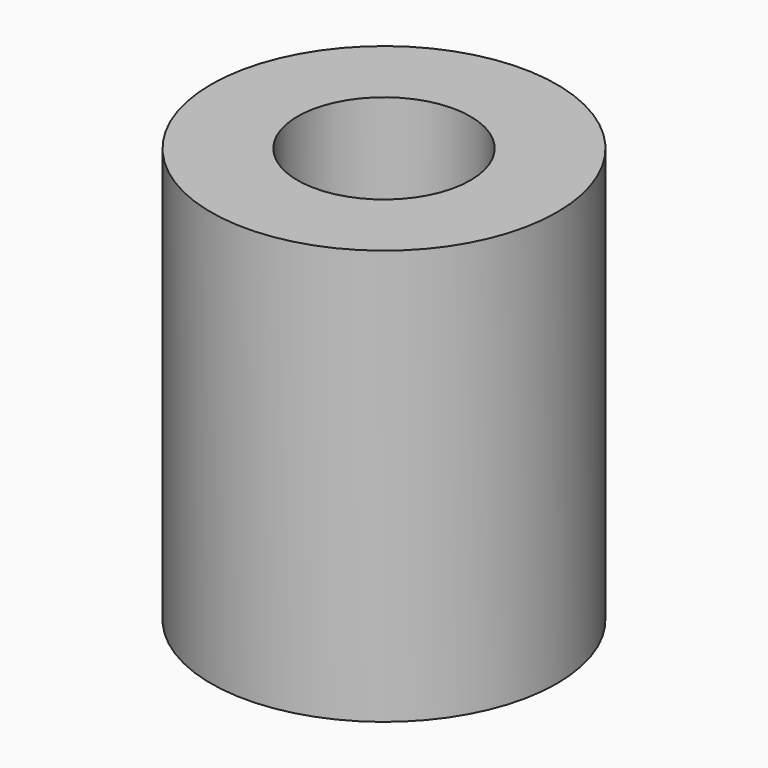
from build123d import *

# Parameters (mm, degrees)
F0_R     = 50
F1_DEPTH = 14.9
F2_R     = 50
F2_R_2   = 25
F3_DEPTH = 105
F4_W     = 30
F4_H     = 30
F5_DEPTH = 0.1


with BuildPart() as f1:
    # F0 (on Top) → F1 (new body)
    with BuildSketch(Plane.XY):
        Circle(F0_R)
    extrude(amount=F1_DEPTH)

    # F2 (on face) → F3 (join)
    with BuildSketch(Plane.XY.offset(14.9)):
        Circle(F2_R)
        Circle(F2_R_2, mode=Mode.SUBTRACT)
    extrude(amount=F3_DEPTH)

    # F4 (on face) → F5 (join)
    with BuildSketch(Plane(origin=(0, 0, 0), x_dir=(1, 0, 0), z_dir=(0, 0, -1))):
        Rectangle(F4_W, F4_H)
    extrude(amount=F5_DEPTH)


solid = f1.part
